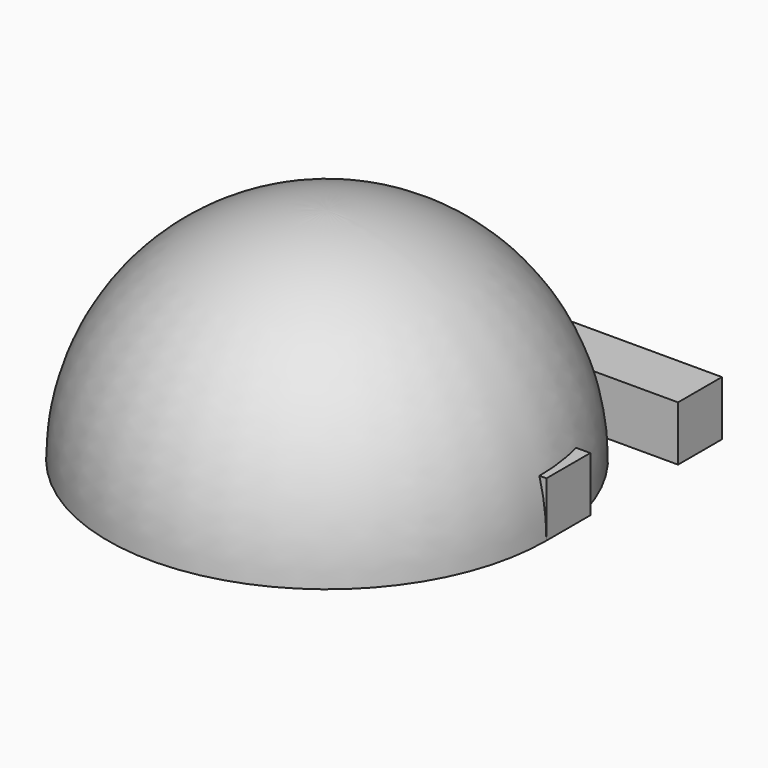
from build123d import *

# Parameters (mm, degrees)
F0_W     = 5
F0_H     = 5
F0_W_2   = 15
F0_H_2   = 10
F1_DEPTH = 5


with BuildPart() as f1:
    # F0 (on Top) → F1 (new body)
    with BuildSketch(Plane.XY):
        with Locations((2.5, 2.5)):
            Rectangle(F0_W, F0_H)
        with Locations((12.5, 2.5)):
            Rectangle(F0_W_2, F0_H)
        with Locations((2.5, 10)):
            Rectangle(F0_W, F0_H_2)
        with Locations((2.5, 17.5)):
            Rectangle(F0_W, F0_H)
        with Locations((12.5, 17.5)):
            Rectangle(F0_W_2, F0_H)
    extrude(amount=F1_DEPTH)


with BuildPart() as f3:
    # F2 (on Front) → F3 (revolve)
    with BuildSketch(Plane.XZ):
        with BuildLine():
            Line((0, 20), (0, 0))
            Line((0, 0), (20, 0))
            ThreePointArc((20, 0), (14.142136, 14.142136), (0, 20))
        make_face()
    revolve(axis=Axis((0, 0, 10), (0, 0, 1)))


solid = Compound([f1.part, f3.part])
